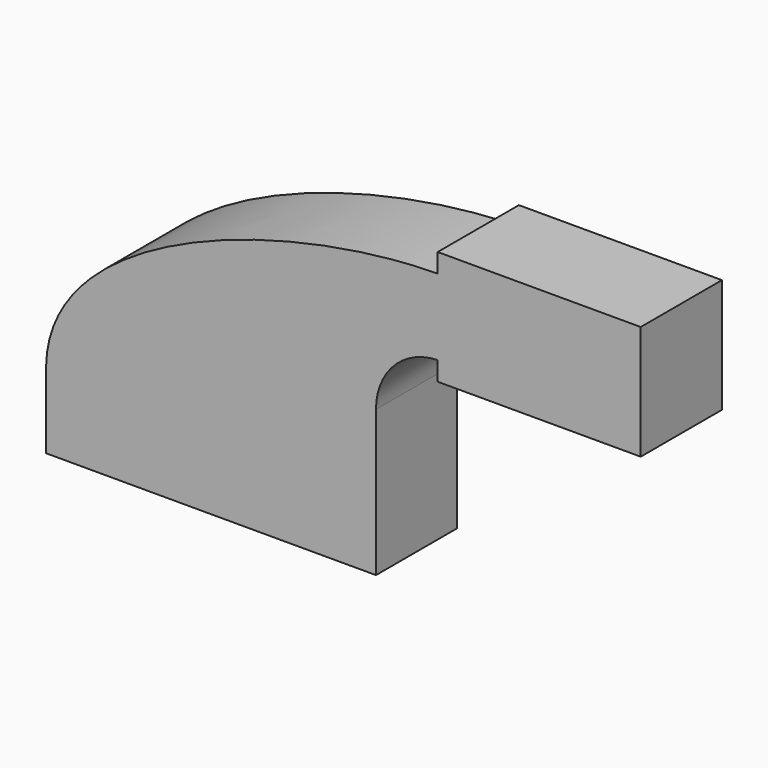
from build123d import *

# Parameters (mm, degrees)
F0_W     = 25.4
F0_H     = 28.575
F1_DEPTH = 25.4


with BuildPart() as f1:
    # F0 (on Front) → F1 (new body)
    with BuildSketch(Plane.XZ):
        Polygon((41.275, -9.525), (41.275, 9.525), (22.225, 9.525), (-41.275, 9.525), (-41.275, -9.525), align=None)
        with BuildLine():
            Line((22.225, 9.525), (41.275, 9.525))
            Line((41.275, 9.525), (41.275, 27.0002))
            ThreePointArc((41.275, 27.0002), (45.7700842218, 38.0687654844), (56.7097265362, 42.869093606))
            Line((56.7097265362, 42.869093606), (56.7097265362, 61.9219276004))
            add(Edge.make_bspline(
                [(56.5976430534, 61.9208318214), (56.6350247317, 61.9212149579), (56.6723859179, 61.921580219), (56.7097265362, 61.9219276004)],
                knots=[110.9664964384, 110.9664964384, 110.9664964384, 110.9664964384, 111.075437095, 111.075437095, 111.075437095, 111.075437095], degree=3))
            ThreePointArc((56.5976430534, 61.9208318214), (32.2597740934, 51.4998383508), (22.225, 27.0002))
            Line((22.225, 27.0002), (22.225, 9.525))
        make_face()
        with BuildLine():
            Line((-41.275, 9.525), (22.225, 9.525))
            Line((22.225, 9.525), (22.225, 27.0002))
            ThreePointArc((22.225, 27.0002), (32.2597740934, 51.4998383508), (56.5976430534, 61.9208318214))
            add(Edge.make_bspline(
                [(-41.275, 9.525), (-40.8172895576, 42.5938186475), (18.5208221845, 61.5305705249), (56.5976430534, 61.9208318214)],
                knots=[0, 0, 0, 0, 110.9664964384, 110.9664964384, 110.9664964384, 110.9664964384], degree=3))
        make_face()
        with BuildLine():
            Line((56.7097265362, 61.9219276004), (56.7097265362, 42.869093606))
            Line((56.7097265362, 42.869093606), (56.7097265362, 38.1))
            Line((56.7097265362, 38.1), (82.1097265362, 38.1))
            Line((82.1097265362, 38.1), (82.1097265362, 66.675))
            Line((82.1097265362, 66.675), (56.7097265362, 66.675))
            Line((56.7097265362, 66.675), (56.7097265362, 61.9224247899))
            ThreePointArc((56.7097265362, 61.9224247899), (56.9298588949, 61.9245061906), (57.15, 61.9252))
            add(Edge.make_bspline(
                [(56.7097265362, 61.9219276004), (56.856805001, 61.9232958778), (57.0035643669, 61.9243867627), (57.15, 61.9252)],
                knots=[111.075437095, 111.075437095, 111.075437095, 111.075437095, 111.5045361635, 111.5045361635, 111.5045361635, 111.5045361635], degree=3))
        make_face()
        with BuildLine():
            ThreePointArc((56.7097265362, 61.9224247899), (56.6536841557, 61.9216732734), (56.5976430534, 61.9208318214))
            add(Edge.make_bspline(
                [(56.5976430534, 61.9208318214), (56.6350247317, 61.9212149579), (56.6723859179, 61.921580219), (56.7097265362, 61.9219276004)],
                knots=[110.9664964384, 110.9664964384, 110.9664964384, 110.9664964384, 111.075437095, 111.075437095, 111.075437095, 111.075437095], degree=3))
            Line((56.7097265362, 61.9219276004), (56.7097265362, 61.9224247899))
        make_face()
        with BuildLine():
            Line((56.7097265362, 61.9224247899), (56.7097265362, 61.9219276004))
            add(Edge.make_bspline(
                [(56.7097265362, 61.9219276004), (56.856805001, 61.9232958778), (57.0035643669, 61.9243867627), (57.15, 61.9252)],
                knots=[111.075437095, 111.075437095, 111.075437095, 111.075437095, 111.5045361635, 111.5045361635, 111.5045361635, 111.5045361635], degree=3))
            ThreePointArc((57.15, 61.9252), (56.9298588949, 61.9245061906), (56.7097265362, 61.9224247899))
        make_face()
        with Locations((94.8097265362, 52.3875)):
            Rectangle(F0_W, F0_H)
    extrude(amount=F1_DEPTH)


solid = f1.part
